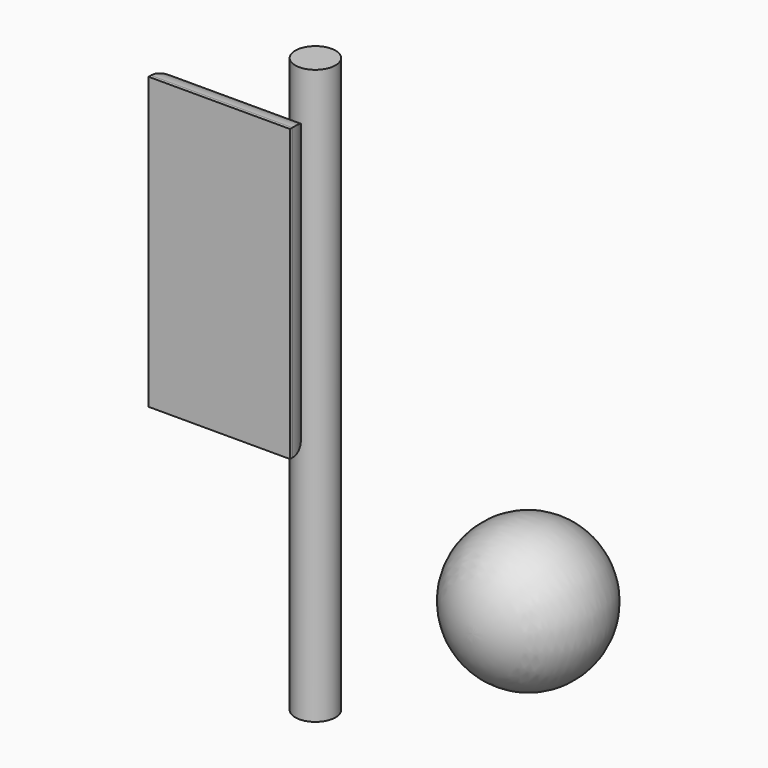
from build123d import *

# Parameters (mm, degrees)
F1_W      = 25.4
F1_H      = 5.8295090708
F2_DEPTH  = 25.4
F0_W      = 25.4
F0_H      = 6.0577418108
F3_DEPTH  = 17.907
F4_DEPTH  = 23.241
F6_R      = 3.609088022
F7_DEPTH  = 44.704
F6_W      = 25.4
F6_H      = 6.0577418108
F8_DEPTH  = 27.686
F11_DEPTH = 58.42
F12_R     = 5.5188922036


with BuildPart() as f2:
    # F1 (on Top) → F2 (new body)
    with BuildSketch(Plane.XY):
        with Locations((-11.3716405467, -16.5398805402)):
            Rectangle(F1_W, F1_H)
    extrude(amount=F2_DEPTH)

    # F4 (cut): a face of the model
    f4_faces = [f2.faces().sort_by_distance(p)[0] for p in [
        (-11.3716405467, -16.5398805402, 0),
    ]]
    extrude(f4_faces, amount=-F4_DEPTH, mode=Mode.SUBTRACT)


with BuildPart() as f2b:
    # F0 (on Top) → F2, piece 2 (new body)
    with BuildSketch(Plane.XY):
        with Locations((-11.1200734973, -24.7201370075)):
            Rectangle(F0_W, F0_H)
    extrude(amount=F2_DEPTH)

    # F3 (cut): a face of the model
    f3_faces = [f2b.faces().sort_by_distance(p)[0] for p in [
        (-11.1200734973, -24.7201370075, 0),
    ]]
    extrude(f3_faces, amount=-F3_DEPTH, mode=Mode.SUBTRACT)

    # F6 (on face) → F7, piece 2 (join)
    with BuildSketch(Plane.XY.offset(25.4)):
        with Locations((-11.1200734973, -24.7201370075)):
            Rectangle(F6_W, F6_H)
    extrude(amount=F7_DEPTH)

    # F8 (add): a face of the model
    f8_faces = [f2b.faces().sort_by_distance(p)[0] for p in [
        (-11.1200734973, -24.7201370075, 70.104),
    ]]
    extrude(f8_faces, amount=-F8_DEPTH)

    # F12
    f12_edges = [f2b.edges().sort_by_distance(p)[0] for p in [
        (-11.120073, -21.691266, 17.907),
        (1.579927, -21.691266, 44.0055),
        (-11.120073, -21.691266, 70.104),
        (-23.820073, -21.691266, 44.0055),
    ]]
    fillet(f12_edges, radius=F12_R)


with BuildPart() as f7:
    # F6 (on face) → F7 (new body)
    with BuildSketch(Plane.XY.offset(25.4)):
        with Locations((-9.1199381277, -8.6717437953)):
            Circle(F6_R)
    extrude(amount=F7_DEPTH)

    # F11 (add): a face of the model
    f11_faces = [f7.faces().sort_by_distance(p)[0] for p in [
        (-9.1199381277, -8.6717437953, 25.4),
    ]]
    extrude(f11_faces, amount=F11_DEPTH)


with BuildPart() as f10:
    # F9 (on Top) → F10 (revolve)
    with BuildSketch(Plane.XY):
        with BuildLine():
            Line((33.0397941357, -1.0512967625), (33.3260521293, -26.4480702251))
            ThreePointArc((33.3260521293, -26.4480702251), (46.0252454693, -13.6049321367), (33.0397941357, -1.0512967625))
        make_face()
    revolve(axis=Axis((33.1829231325, -13.7496834938, 0), (0.0112707156, -0.9999364835, 0)))


solid = Compound([f2b.part, f7.part, f10.part])
